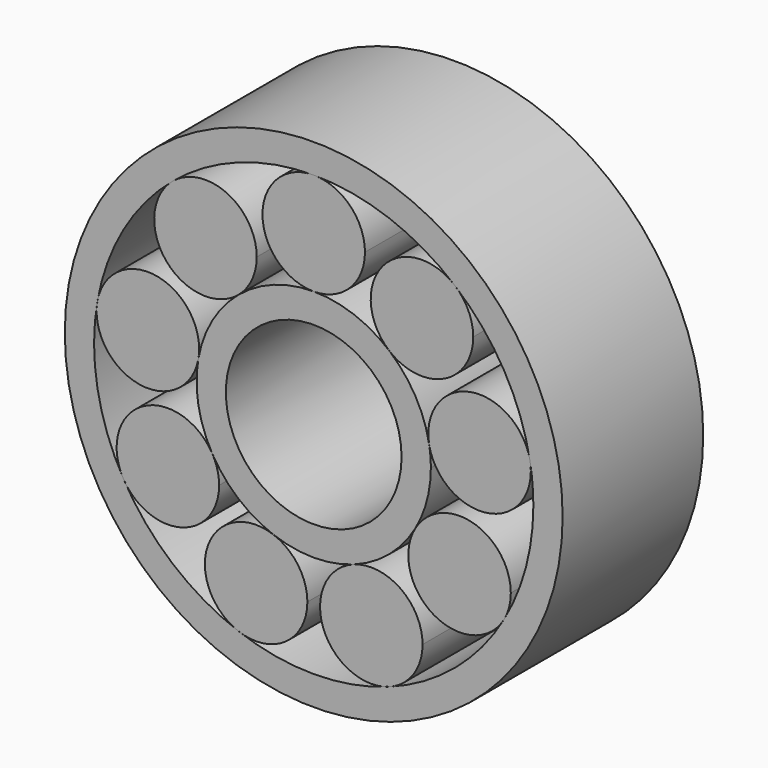
from build123d import *

# Parameters (mm, degrees)
F0_R     = 8.5
F0_R_2   = 3
F1_DEPTH = 6


with BuildPart() as f1:
    # F0 (on Front) → F1 (new body)
    with BuildSketch(Plane.XZ):
        Circle(F0_R)
        with BuildLine():
            ThreePointArc((7.386058, 1.302361), (7.47146, 0.653668), (7.5, 0))
            ThreePointArc((7.5, 0), (7.244444, -1.941143), (6.495191, -3.75))
            ThreePointArc((6.495191, -3.75), (4.820907, -5.745333), (2.565151, -7.047695))
            ThreePointArc((2.565151, -7.047695), (0, -7.5), (-2.565151, -7.047695))
            ThreePointArc((-2.565151, -7.047695), (-4.820907, -5.745333), (-6.495191, -3.75))
            ThreePointArc((-6.495191, -3.75), (-7.386058, -1.302361), (-7.386058, 1.302361))
            ThreePointArc((-7.386058, 1.302361), (-6.495191, 3.75), (-4.820907, 5.745333))
            ThreePointArc((-4.820907, 5.745333), (-2.565151, 7.047695), (0, 7.5))
            ThreePointArc((0, 7.5), (2.565151, 7.047695), (4.820907, 5.745333))
            ThreePointArc((4.820907, 5.745333), (6.495191, 3.75), (7.386058, 1.302361))
        make_face(mode=Mode.SUBTRACT)
        with BuildLine():
            ThreePointArc((-1.946029, 4.404756), (-2.956447, 5.990794), (-4.820907, 5.745333))
            ThreePointArc((-4.820907, 5.745333), (-5.036607, 3.279877), (-2.57115, 3.064178))
            ThreePointArc((-2.57115, 3.064178), (-2.10999, 3.665174), (-1.946029, 4.404756))
        make_face()
        with BuildLine():
            ThreePointArc((-3.912645, 0.998477), (-5.510122, 2.741818), (-7.386058, 1.302361))
            ThreePointArc((-7.386058, 1.302361), (-5.966529, -0.724937), (-3.939231, 0.694593))
            ThreePointArc((-3.939231, 0.694593), (-3.919304, 0.845954), (-3.912645, 0.998477))
        make_face()
        with BuildLine():
            ThreePointArc((-3.464102, -2), (-5.854646, -1.359456), (-6.495191, -3.75))
            ThreePointArc((-6.495191, -3.75), (-4.526713, -4.56537), (-3.229646, -2.875))
            ThreePointArc((-3.229646, -2.875), (-3.289276, -2.422067), (-3.464102, -2))
        make_face()
        with BuildLine():
            ThreePointArc((4, 0), (3.984779, 0.348623), (3.939231, 0.694593))
            ThreePointArc((3.939231, 0.694593), (3.464102, 2), (2.57115, 3.064178))
            ThreePointArc((2.57115, 3.064178), (1.368081, 3.75877), (0, 4))
            ThreePointArc((0, 4), (-1.368081, 3.75877), (-2.57115, 3.064178))
            ThreePointArc((-2.57115, 3.064178), (-3.464102, 2), (-3.939231, 0.694593))
            ThreePointArc((-3.939231, 0.694593), (-3.939231, -0.694593), (-3.464102, -2))
            ThreePointArc((-3.464102, -2), (-2.57115, -3.064178), (-1.368081, -3.75877))
            ThreePointArc((-1.368081, -3.75877), (0, -4), (1.368081, -3.75877))
            ThreePointArc((1.368081, -3.75877), (2.57115, -3.064178), (3.464102, -2))
            ThreePointArc((3.464102, -2), (3.863703, -1.035276), (4, 0))
        make_face()
        Circle(F0_R_2, mode=Mode.SUBTRACT)
        with BuildLine():
            ThreePointArc((1.75, 5.75), (1.237437, 6.987437), (0, 7.5))
            ThreePointArc((0, 7.5), (-1.75, 5.75), (0, 4))
            ThreePointArc((0, 4), (1.237437, 4.512563), (1.75, 5.75))
        make_face()
        with BuildLine():
            ThreePointArc((5.446029, 4.404756), (5.282067, 5.144337), (4.820907, 5.745333))
            ThreePointArc((4.820907, 5.745333), (2.355451, 5.529634), (2.57115, 3.064178))
            ThreePointArc((2.57115, 3.064178), (4.435611, 2.818717), (5.446029, 4.404756))
        make_face()
        with BuildLine():
            ThreePointArc((7.412645, 0.998477), (7.405985, 1.151), (7.386058, 1.302361))
            ThreePointArc((7.386058, 1.302361), (5.35876, 2.721891), (3.939231, 0.694593))
            ThreePointArc((3.939231, 0.694593), (5.815167, -0.744864), (7.412645, 0.998477))
        make_face()
        with BuildLine():
            ThreePointArc((3.464102, -2), (4.104646, -4.390544), (6.495191, -3.75))
            ThreePointArc((6.495191, -3.75), (6.670016, -3.327933), (6.729646, -2.875))
            ThreePointArc((6.729646, -2.875), (5.432579, -1.18463), (3.464102, -2))
        make_face()
        with BuildLine():
            ThreePointArc((1.368081, -3.75877), (0.322154, -6.001768), (2.565151, -7.047695))
            ThreePointArc((2.565151, -7.047695), (3.400132, -6.406991), (3.716616, -5.403233))
            ThreePointArc((3.716616, -5.403233), (2.970375, -3.969716), (1.368081, -3.75877))
        make_face()
        with BuildLine():
            ThreePointArc((-1.368081, -3.75877), (-3.611078, -4.804697), (-2.565151, -7.047695))
            ThreePointArc((-2.565151, -7.047695), (-0.962857, -6.836749), (-0.216616, -5.403233))
            ThreePointArc((-0.216616, -5.403233), (-0.5331, -4.399474), (-1.368081, -3.75877))
        make_face()
    extrude(amount=F1_DEPTH)


solid = f1.part
